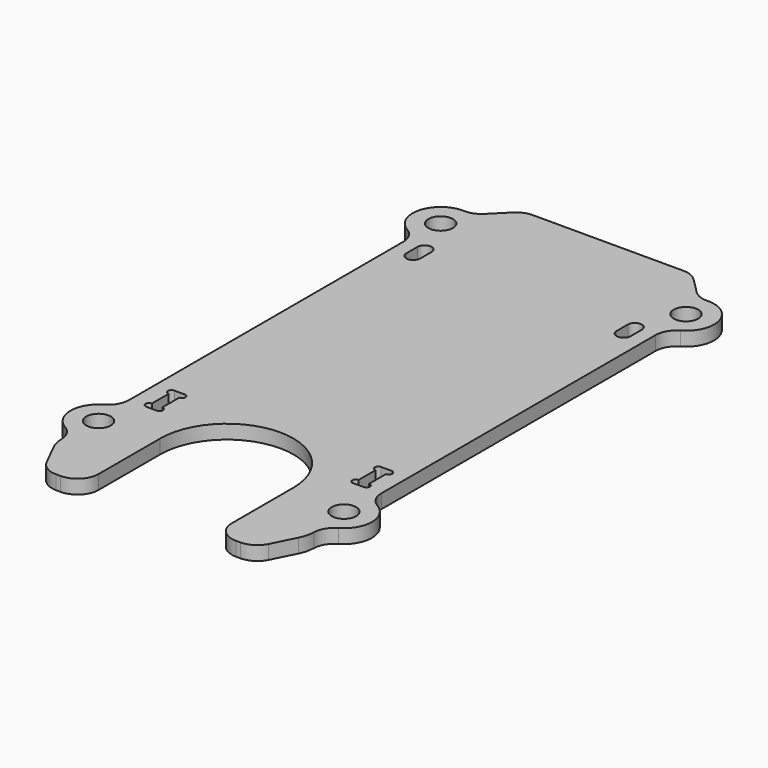
from build123d import *

# Parameters (mm, degrees)
F0_R     = 1.75
F1_DEPTH = 2
F2_R     = 3


with BuildPart() as f1:
    # F0 (on Top) → F1 (new body)
    with BuildSketch(Plane.XY):
        with BuildLine():
            ThreePointArc((-15.82918, -47.341641), (-14.723091, -48.551952), (-13.145898, -49))
            Line((-13.145898, -49), (-12.5, -49))
            ThreePointArc((-12.5, -49), (-10.37868, -48.12132), (-9.5, -46))
            Line((-9.5, -46), (-9.5, -35))
            ThreePointArc((-9.5, -35), (0, -25.5), (9.5, -35))
            Line((9.5, -35), (9.5, -46))
            ThreePointArc((9.5, -46), (10.37868, -48.12132), (12.5, -49))
            Line((12.5, -49), (13.145898, -49))
            ThreePointArc((13.145898, -49), (14.723091, -48.551952), (15.82918, -47.341641))
            Line((15.82918, -47.341641), (17.472136, -44.055728))
            ThreePointArc((17.472136, -44.055728), (17.866245, -42.968425), (18, -41.81966))
            Line((18, -41.81966), (18, -39.968627))
            ThreePointArc((18, -39.968627), (21.5, -36), (18, -32.031373))
            Line((18, -32.031373), (18, 21.031373))
            ThreePointArc((18, 21.031373), (21.39785, 25.898203), (16.212777, 28.787223))
            Line((16.212777, 28.787223), (12.87868, 32.12132))
            ThreePointArc((12.87868, 32.12132), (11.90541, 32.771639), (10.757359, 33))
            Line((10.757359, 33), (-10.757359, 33))
            ThreePointArc((-10.757359, 33), (-11.90541, 32.771639), (-12.87868, 32.12132))
            Line((-12.87868, 32.12132), (-16.212777, 28.787223))
            ThreePointArc((-16.212777, 28.787223), (-21.39785, 25.898203), (-18, 21.031373))
            Line((-18, 21.031373), (-18, -32.031373))
            ThreePointArc((-18, -32.031373), (-21.5, -36), (-18, -39.968627))
            Line((-18, -39.968627), (-18, -41.81966))
            ThreePointArc((-18, -41.81966), (-17.866245, -42.968425), (-17.472136, -44.055728))
            Line((-17.472136, -44.055728), (-15.82918, -47.341641))
        make_face()
        with Locations((-17.5, -36)):
            Circle(F0_R, mode=Mode.SUBTRACT)
        with BuildLine():
            ThreePointArc((-15.5, -26), (-16, -25.5), (-15.5, -25))
            Line((-15.5, -25), (-14, -25))
            ThreePointArc((-14, -25), (-13.5, -25.5), (-14, -26))
            Line((-14, -26), (-14, -29))
            ThreePointArc((-14, -29), (-13.5, -29.5), (-14, -30))
            Line((-14, -30), (-15.5, -30))
            ThreePointArc((-15.5, -30), (-16, -29.5), (-15.5, -29))
            Line((-15.5, -29), (-15.5, -26))
        make_face(mode=Mode.SUBTRACT)
        with Locations((17.5, -36)):
            Circle(F0_R, mode=Mode.SUBTRACT)
        with BuildLine():
            Line((15.5, -30), (14, -30))
            ThreePointArc((14, -30), (13.5, -29.5), (14, -29))
            Line((14, -29), (14, -26))
            ThreePointArc((14, -26), (13.5, -25.5), (14, -25))
            Line((14, -25), (15.5, -25))
            ThreePointArc((15.5, -25), (16, -25.5), (15.5, -26))
            Line((15.5, -26), (15.5, -29))
            ThreePointArc((15.5, -29), (16, -29.5), (15.5, -30))
        make_face(mode=Mode.SUBTRACT)
        with BuildLine():
            Line((-16, 17), (-16, 19))
            ThreePointArc((-16, 19), (-15, 20), (-14, 19))
            Line((-14, 19), (-14, 17))
            ThreePointArc((-14, 17), (-15, 16), (-16, 17))
        make_face(mode=Mode.SUBTRACT)
        with Locations((-17.5, 25)):
            Circle(F0_R, mode=Mode.SUBTRACT)
        with BuildLine():
            ThreePointArc((14, 19), (15, 20), (16, 19))
            Line((16, 19), (16, 17))
            ThreePointArc((16, 17), (15, 16), (14, 17))
            Line((14, 17), (14, 19))
        make_face(mode=Mode.SUBTRACT)
        with Locations((17.5, 25)):
            Circle(F0_R, mode=Mode.SUBTRACT)
    extrude(amount=F1_DEPTH)

    # F2
    f2_edges = [f1.edges().sort_by_distance(p)[0] for p in [
        (-18, -39.968627, 1),
        (-18, -32.031373, 1),
        (18, -39.968627, 1),
        (18, -32.031373, 1),
        (16.212777, 28.787223, 1),
        (18, 21.031373, 1),
        (-16.212777, 28.787223, 1),
        (-18, 21.031373, 1),
    ]]
    fillet(f2_edges, radius=F2_R)


solid = f1.part
